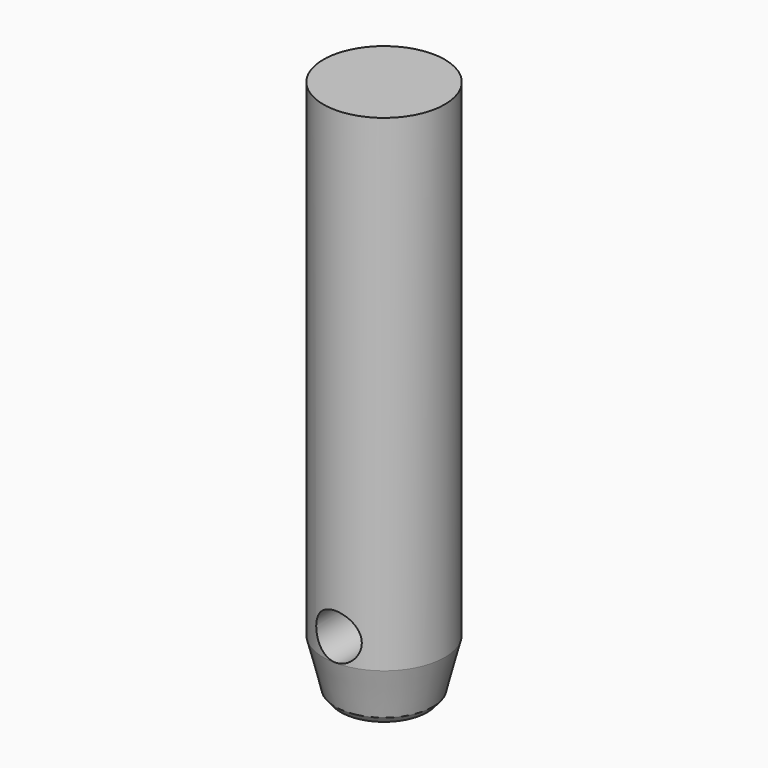
from build123d import *

# Parameters (mm, degrees)
F1_R      = 16
F2_DEPTH  = 71.1
F3_DEPTH  = 57.1
F3_FACE_R = 16
F5_R      = 12.85
F8_R      = 11.375
F6_FACE_R = 12.85
F10_D     = 12
F10_DEPTH = 16.0010001
F12_D     = 12


with BuildPart() as f2:
    # F1 (on Top) → F2 (new body)
    with BuildSketch(Plane.XY):
        Circle(F1_R)
    extrude(amount=F2_DEPTH)

    # F3 (add): a face of the model
    f3_faces = [f2.faces().sort_by_distance(p)[0] for p in [
        (0, 0, 0),
    ]]
    extrude(f3_faces, amount=F3_DEPTH)

    # F3_face (on face) → F6 section 0
    with BuildSketch(Plane(origin=(0, 0, -57.1), x_dir=(1, 0, 0), z_dir=(0, 0, -1))):
        Circle(F3_FACE_R)
    # F5 (on offset) → F6 section 1
    with BuildSketch(Plane(origin=(0, 0, -69.6), x_dir=(1, 0, 0), z_dir=(0, 0, -1))):
        Circle(F5_R)
    loft()

    # F8 (on offset) → F9 section 0
    with BuildSketch(Plane(origin=(0, 0, -71.35), x_dir=(1, 0, 0), z_dir=(0, 0, -1))):
        Circle(F8_R)
    # F6_face (on face) → F9 section 1
    with BuildSketch(Plane(origin=(0, 0, -69.6), x_dir=(1, 0, 0), z_dir=(0, 0, -1))):
        Circle(F6_FACE_R)
    loft()

    # F10 (through all, one way)
    with BuildSketch(Plane.XZ):
        with Locations((0, -51)):
            Circle(F10_D / 2)
    extrude(amount=-F10_DEPTH, mode=Mode.SUBTRACT)

    # F12 (through all)
    with Locations(Plane(origin=(0, 0, 0), x_dir=(1, 0, 0), z_dir=(0, 1, 0))):
        with Locations((0, 51)):
            Hole(F12_D / 2)


solid = f2.part
